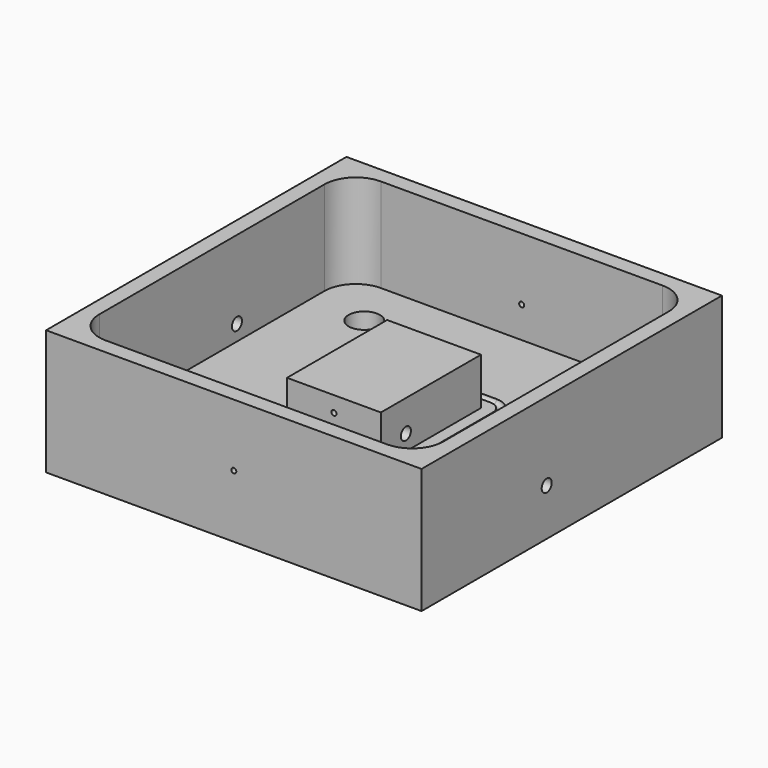
from build123d import *

# Parameters (mm, degrees)
F0_W      = 38.1
F0_H      = 38.1
F1_DEPTH  = 12.7
F2_W      = 34.925
F2_H      = 34.925
F3_DEPTH  = 9.525
F4_W      = 9.525
F4_H      = 12.7
F5_DEPTH  = 4.7625
F7_D      = 0.508
F7_DEPTH  = 14.2875
F7_TIP    = 0.1526185972
F9_D      = 0.508
F9_DEPTH  = 14.2875
F9_TIP    = 0.1526185972
F10_R     = 3.175
F15_D     = 3.175
F17_DEPTH = 0.79375
F18_R     = 0.508
F19_R     = 0.635
F20_DEPTH = 15.875
F21_R     = 0.635
F22_DEPTH = 15.875


with BuildPart() as f1:
    # F0 (on Top) → F1 (new body)
    with BuildSketch(Plane.XY):
        Rectangle(F0_W, F0_H)
        Rectangle(F0_W, F0_H)
    extrude(amount=F1_DEPTH)

    # F2 (on face) → F3 (cut)
    with BuildSketch(Plane.XY.offset(12.7)):
        Rectangle(F2_W, F2_H)
    extrude(amount=-F3_DEPTH, mode=Mode.SUBTRACT)

    # F4 (on face) → F5 (join)
    with BuildSketch(Plane.XY.offset(3.175)):
        Rectangle(F4_W, F4_H)
    extrude(amount=F5_DEPTH)

    # F7
    with Locations(Plane.XZ.offset(19.05)):
        with Locations((0, 6.35)):
            Hole(F7_D / 2, depth=F7_DEPTH)
            with Locations((0, 0, -(F7_DEPTH + F7_TIP / 2))):  # 118° drill point
                Cone(0, F7_D / 2, F7_TIP, mode=Mode.SUBTRACT)

    # F9
    with Locations(Plane(origin=(0, 19.05, 0), x_dir=(-1, 0, 0), z_dir=(0, 1, 0))):
        with Locations((0, 6.35)):
            Hole(F9_D / 2, depth=F9_DEPTH)
            with Locations((0, 0, -(F9_DEPTH + F9_TIP / 2))):  # 118° drill point
                Cone(0, F9_D / 2, F9_TIP, mode=Mode.SUBTRACT)

    # F10
    f10_edges = [f1.edges().sort_by_distance(p)[0] for p in [
        (-17.4625, 17.4625, 7.9375),
        (-17.4625, -17.4625, 7.9375),
        (17.4625, -17.4625, 7.9375),
        (17.4625, 17.4625, 7.9375),
    ]]
    fillet(f10_edges, radius=F10_R)

    # F13: sweep along a path in F11
    with BuildLine(Plane.XY.offset(3.175)) as f13_path:
        Line((4.7625, -7.9375), (-4.7625, -7.9375))
        ThreePointArc((-4.7625, -7.9375), (-5.8850320151, -7.4725320151), (-6.35, -6.35))
        Line((-6.35, -6.35), (-6.35, 0))
        Line((-6.35, 0), (-6.35, 6.35))
        ThreePointArc((-6.35, 6.35), (-5.8850320151, 7.4725320151), (-4.7625, 7.9375))
        Line((-4.7625, 7.9375), (4.7625, 7.9375))
        ThreePointArc((4.7625, 7.9375), (5.8850320151, 7.4725320151), (6.35, 6.35))
        Line((6.35, 6.35), (6.35, -6.35))
        ThreePointArc((6.35, -6.35), (5.8850320151, -7.4725320151), (4.7625, -7.9375))
    # F12 (on Front) → F13 (sweep, cut)
    with BuildSketch(Plane.XZ):
        with BuildLine():
            Line((-5.969, 3.175), (-6.731, 3.175))
            ThreePointArc((-6.731, 3.175), (-6.35, 2.794), (-5.969, 3.175))
        make_face()
    sweep(path=f13_path.line, mode=Mode.SUBTRACT)

    # F15 (through all)
    with Locations(Plane.XY.offset(3.175)):
        with Locations((11.8219737159, -12.2742969073), (11.8219737159, 12.2742969073), (-11.8219737159, 12.2742969073), (-11.8218979341, -12.2742284023)):
            Hole(F15_D / 2)

    # F16 (on face) → F17 (join)
    with BuildSketch(Plane.XY.offset(3.175)):
        Polygon((10.2344737159, -0.9165435523), (13.4094737159, -0.9165435523), (11.8219737159, 1.8330871047), align=None)
    extrude(amount=F17_DEPTH)

    # F18
    f18_edges = [f1.edges().sort_by_distance(p)[0] for p in [
        (11.821974, 1.833087, 3.571875),
        (13.409474, -0.916544, 3.571875),
        (10.234474, -0.916544, 3.571875),
    ]]
    fillet(f18_edges, radius=F18_R)

    # F19 (on face) → F20 (cut)
    with BuildSketch(Plane.YZ.offset(19.05)):
        with Locations((-3.175, 4.7625)):
            Circle(F19_R)
    extrude(amount=-F20_DEPTH, mode=Mode.SUBTRACT)

    # F21 (on face) → F22 (cut)
    with BuildSketch(Plane(origin=(-19.05, 0, 0), x_dir=(0, -1, 0), z_dir=(-1, 0, 0))):
        with Locations((-3.175, 4.7625)):
            Circle(F21_R)
    extrude(amount=-F22_DEPTH, mode=Mode.SUBTRACT)


solid = f1.part
